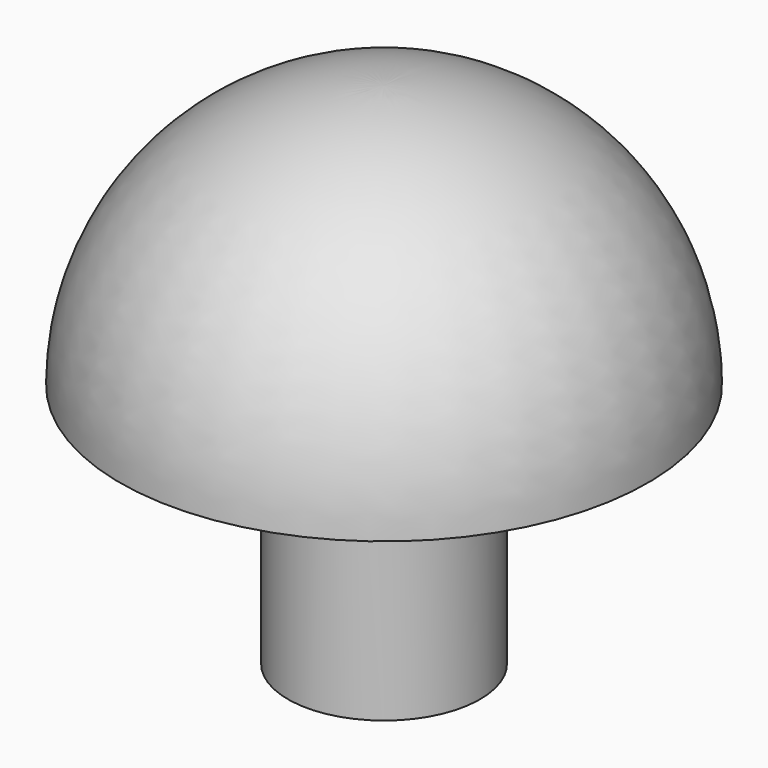
from build123d import *

# Parameters (mm, degrees)
F3_DEPTH = 10


with BuildPart() as f1:
    # F0 (on Right) → F1 (revolve)
    with BuildSketch(Plane.YZ):
        with BuildLine():
            Line((0, 0), (5.584829, 0))
            Line((5.584829, 0), (5.584829, 14.251626))
            Line((5.584829, 14.251626), (15.344218, 14.251626))
            ThreePointArc((15.344218, 14.251626), (10.850001, 25.101627), (0, 29.595844))
            Line((0, 29.595844), (0, 0))
        make_face()
    revolve(axis=Axis((0, 0, 14.797922), (0, 0, -1)))

    # F2 (on Top) → F3 (cut)
    with BuildSketch(Plane.XY):
        with BuildLine():
            Line((-2.598076, -1.5), (2.598076, -1.5))
            ThreePointArc((2.598076, -1.5), (0, 3), (-2.598076, -1.5))
        make_face()
    extrude(amount=F3_DEPTH, mode=Mode.SUBTRACT)


solid = f1.part
